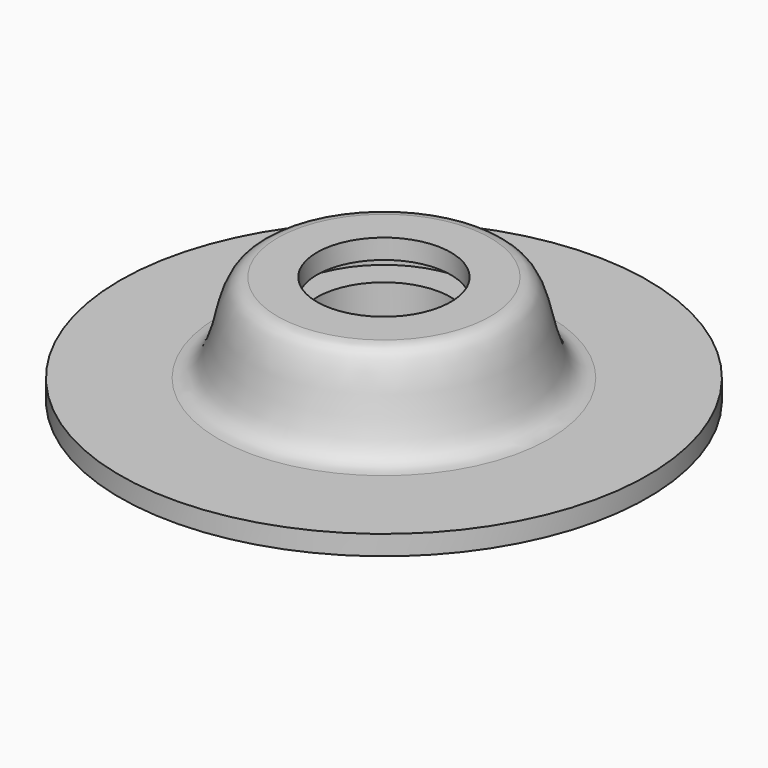
from build123d import *

# Parameters (mm, degrees)
F0_W   = 1
F0_H   = 2
F0_W_2 = 10


with BuildPart() as f1:
    # F0 (on Front) → F1 (revolve)
    with BuildSketch(Plane.XZ):
        Polygon((-6.8, 11), (-10.8, 11), (-10.8, 9), (-9.8, 9), (-6.8, 9), align=None)
        with Locations((-10.3, 8)):
            Rectangle(F0_W, F0_H)
        with BuildLine():
            add(Edge.make_bspline(
                [(-16.8, 2), (-12.629367, 2), (-14.361837, 11), (-10.8, 11)],
                knots=[0, 0, 0, 0, 10.816654, 10.816654, 10.816654, 10.816654], degree=3))
            Line((-16.8, 2), (-10.8, 2))
            Line((-10.8, 2), (-10.8, 7))
            Line((-10.8, 7), (-10.8, 9))
            Line((-10.8, 9), (-10.8, 11))
        make_face()
        Polygon((-10.8, 2), (-6.8, 2), (-6.8, 7), (-9.8, 7), (-10.8, 7), align=None)
        Polygon((-16.8, 0), (-6.8, 0), (-6.8, 2), (-10.8, 2), (-16.8, 2), align=None)
        with Locations((-21.8, 1)):
            Rectangle(F0_W_2, F0_H)
    revolve(axis=Axis((0, 0, 2.701946), (0, 0, 1)))


solid = f1.part
